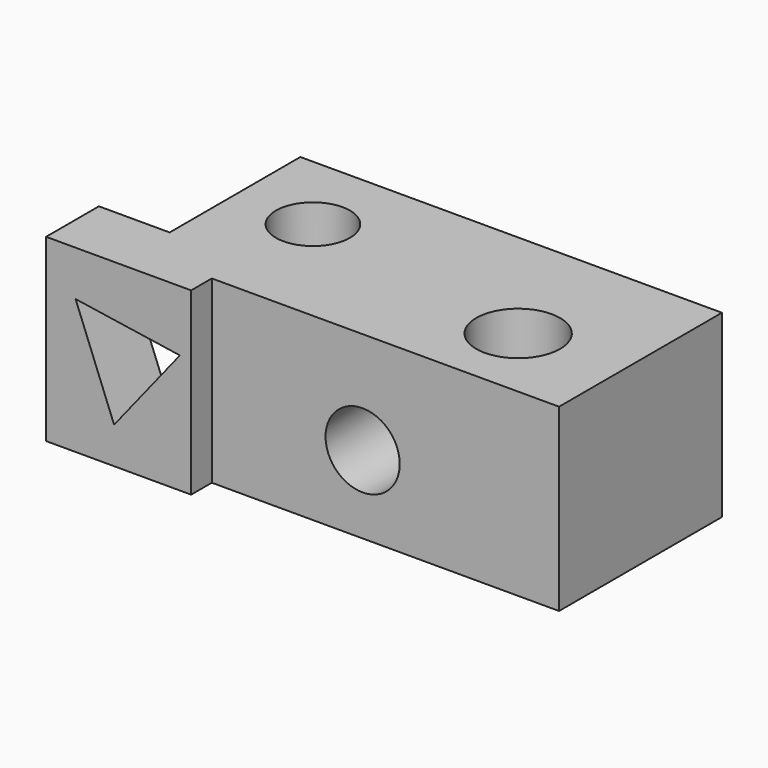
from build123d import *

# Parameters (mm, degrees)
F0_R     = 17.76649
F0_R_2   = 15.679579
F1_DEPTH = 76.2
F3_DEPTH = 112.522
F4_R     = 15.719136
F5_DEPTH = 182.626
F6_R     = 16.325262
F6_R_2   = 3.503895
F7_DEPTH = 86.106


with BuildPart() as f1:
    # F0 (on Top) → F1 (new body)
    with BuildSketch(Plane.XY):
        Polygon((105.979137, 26.87672), (-72.61806, 26.87672), (-72.61806, -42.346146), (-102.592185, -42.346146), (-102.592185, -70.317619), (-41.133739, -70.317619), (-41.133739, -59.36873), (105.979137, -59.36873), align=None)
        with Locations((62.618658, -26.834318)):
            Circle(F0_R, mode=Mode.SUBTRACT)
        with Locations((-39.288443, -8.131367)):
            Circle(F0_R_2, mode=Mode.SUBTRACT)
    extrude(amount=-F1_DEPTH)

    # F2 (on face) → F3 (cut)
    with BuildSketch(Plane.XZ.offset(70.317619)):
        Polygon((-73.776924, -60.745504), (-45.90854, -25.806386), (-90.100896, -19.141217), align=None)
    extrude(amount=-F3_DEPTH, mode=Mode.SUBTRACT)

    # F4 (on face) → F5 (cut)
    with BuildSketch(Plane(origin=(0, 26.87672, 0), x_dir=(-1, 0, 0), z_dir=(0, 1, 0))):
        with Locations((-22.761121, -43.327287)):
            Circle(F4_R)
    extrude(amount=-F5_DEPTH, mode=Mode.SUBTRACT)

    # F6 (on face) → F7 (join)
    with BuildSketch(Plane(origin=(0, 26.87672, 0), x_dir=(-1, 0, 0), z_dir=(0, 1, 0))):
        with Locations((-78.335434, -36.600552)):
            Circle(F6_R)
        with Locations((-78.335434, -36.600552)):
            Circle(F6_R_2, mode=Mode.SUBTRACT)
    extrude(amount=-F7_DEPTH)


solid = f1.part
